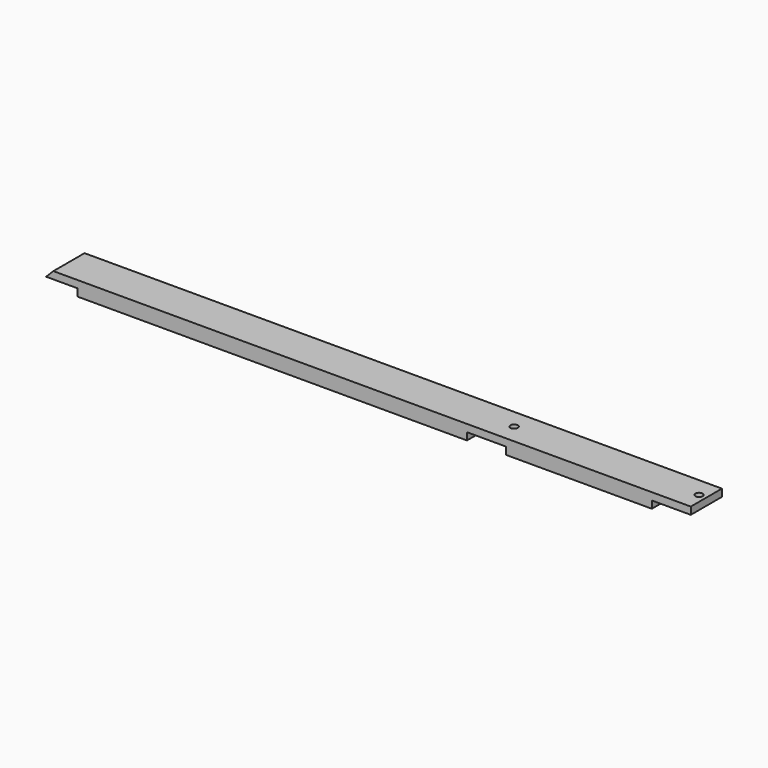
from build123d import *

# Parameters (mm, degrees)
F1_DEPTH = 50.8
F2_R     = 4.7625
F3_DEPTH = 25.4


with BuildPart() as f1:
    # F0 (on Front) → F1 (new body)
    with BuildSketch(Plane.XZ):
        Polygon((50.8, 9.524989), (50.8, 0), (558.8, 0), (558.8, 9.525), (609.6, 9.525), (609.6, 0), (800.1, 0), (800.1, 9.525), (850.9, 9.525), (850.9, 19.05), (19.05, 19.05), (9.524989, 9.524989), align=None)
    extrude(amount=F1_DEPTH)

    # F2 (on Top) → F3 (cut)
    with BuildSketch(Plane.XY):
        with Locations((841.375, -25.4)):
            Circle(F2_R)
        with Locations((600.075, -25.4)):
            Circle(F2_R)
    extrude(amount=F3_DEPTH, mode=Mode.SUBTRACT)


solid = f1.part
